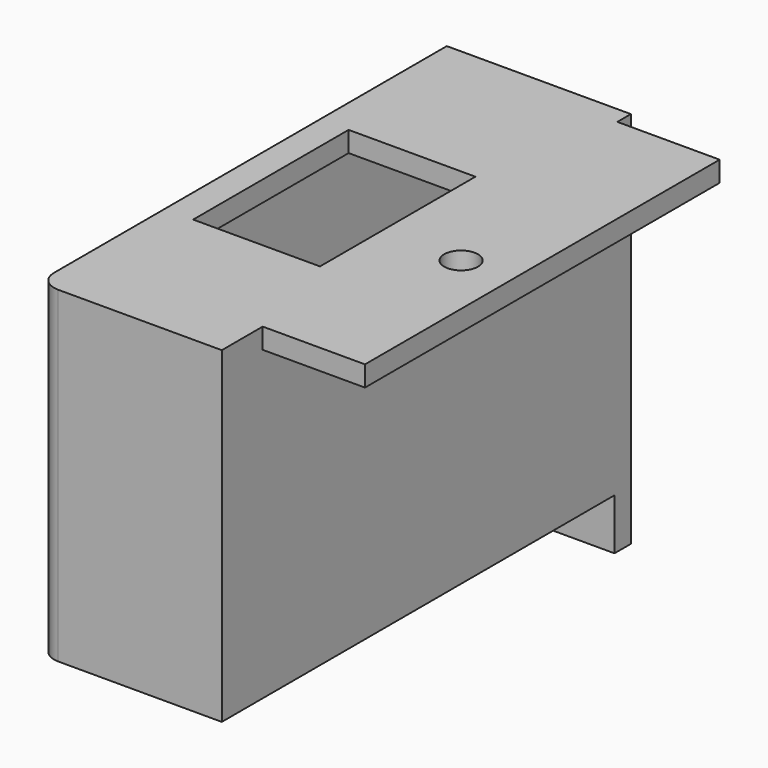
from build123d import *

# Parameters (mm, degrees)
F0_W          = 14
F0_H          = 46
F0_W_2        = 10
F0_H_2        = 43.35
F0_R          = 1.65
F0_W_3        = 12.4
F0_H_3        = 19
F1_DEPTH      = 2
F2_DEPTH      = 30
F4_DEPTH      = 5
F5_R          = 1.65
F6_DEPTH      = 25
F6_DEPTH_BACK = 25


with BuildPart() as f1:
    # F0 (on Top) → F1 (new body)
    with BuildSketch(Plane.XY):
        with BuildLine():
            Line((9, 25), (-9, 25))
            Line((-9, 25), (-9, -23))
            ThreePointArc((-9, -23), (-8.414214, -24.414214), (-7, -25))
            Line((-7, -25), (9, -25))
            Line((9, -25), (9, -20))
            Line((9, -20), (9, 23.35))
            Line((9, 23.35), (9, 25))
        make_face()
        Rectangle(F0_W, F0_H, mode=Mode.SUBTRACT)
        with Locations((14, 1.675)):
            Rectangle(F0_W_2, F0_H_2)
        with Locations((14, -2)):
            Circle(F0_R, mode=Mode.SUBTRACT)
        Rectangle(F0_W, F0_H)
        Rectangle(F0_W_3, F0_H_3, mode=Mode.SUBTRACT)
    extrude(amount=F1_DEPTH)

    # F0 (on Top) → F2 (join)
    with BuildSketch(Plane.XY):
        with BuildLine():
            Line((9, 25), (-9, 25))
            Line((-9, 25), (-9, -23))
            ThreePointArc((-9, -23), (-8.414214, -24.414214), (-7, -25))
            Line((-7, -25), (9, -25))
            Line((9, -25), (9, -20))
            Line((9, -20), (9, 23.35))
            Line((9, 23.35), (9, 25))
        make_face()
        Rectangle(F0_W, F0_H, mode=Mode.SUBTRACT)
    extrude(amount=-F2_DEPTH)

    # F3 (on face) → F4 (join)
    with BuildSketch(Plane(origin=(0, 0, -30), x_dir=(1, 0, 0), z_dir=(0, 0, -1))):
        Polygon((-9, -23), (-9, -25), (9, -25), (9, -23), (7, -23), (-7, -23), align=None)
    extrude(amount=F4_DEPTH)

    # F5 (on face) → F6 (cut, two sides)
    with BuildSketch(Plane(origin=(0, 25, 0), x_dir=(-1, 0, 0), z_dir=(0, 1, 0))) as f6_sk:
        with Locations((4, -30)):
            Circle(F5_R)
    extrude(amount=-F6_DEPTH, mode=Mode.SUBTRACT)
    extrude(f6_sk.sketch, amount=-F6_DEPTH_BACK, mode=Mode.SUBTRACT)


solid = f1.part
